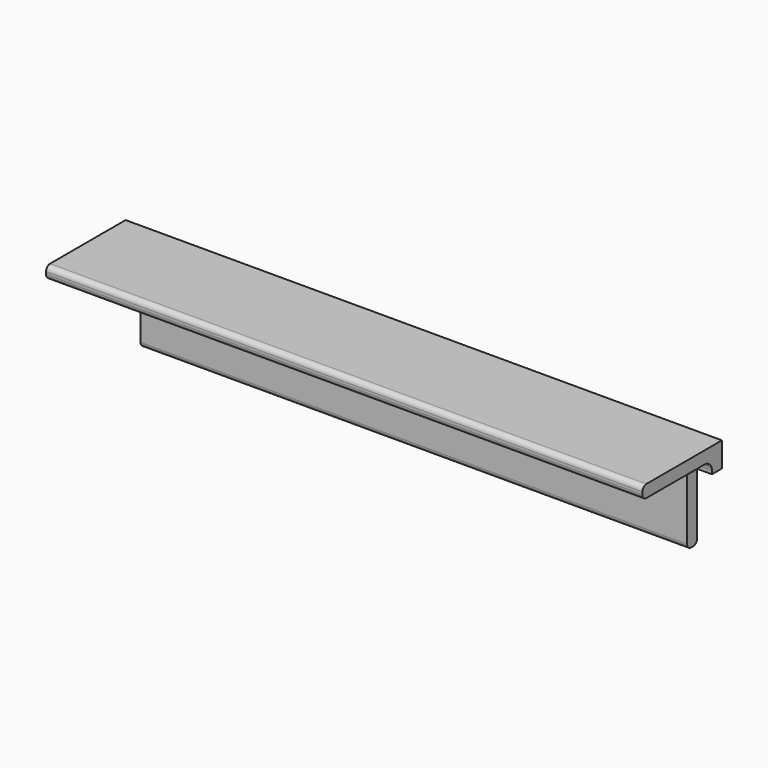
from build123d import *

# Parameters (mm, degrees)
F1_DEPTH = 304.8
F2_W     = 12.7
F2_H     = 38.1
F3_DEPTH = 25.4
F4_W     = 12.7
F4_H     = 38.1
F5_DEPTH = 25.4
F6_R     = 4.7625
F7_R     = 2.54
F8_R     = 4.7625


with BuildPart() as f1:
    # F0 (on Right) → F1 (new body)
    with BuildSketch(Plane.YZ):
        Polygon((28.189341, 36.801784), (-22.610659, 36.801784), (-22.610659, 30.451784), (21.839341, 30.451784), (21.839341, -13.998216), (28.189341, -13.998216), align=None)
    extrude(amount=F1_DEPTH)

    # F2 (on face) → F3 (cut)
    with BuildSketch(Plane.XZ.offset(-21.839341)):
        with Locations((6.35, 5.051784)):
            Rectangle(F2_W, F2_H)
    extrude(amount=-F3_DEPTH, mode=Mode.SUBTRACT)

    # F4 (on face) → F5 (cut)
    with BuildSketch(Plane.XZ.offset(-21.839341)):
        with Locations((298.45, 5.051784)):
            Rectangle(F4_W, F4_H)
    extrude(amount=-F5_DEPTH, mode=Mode.SUBTRACT)

    # F6
    f6_edges = [f1.edges().sort_by_distance(p)[0] for p in [
        (152.4, 21.839341, 30.451784),
    ]]
    fillet(f6_edges, radius=F6_R)

    # F7
    f7_edges = [f1.edges().sort_by_distance(p)[0] for p in [
        (152.4, -22.610659, 36.801784),
        (152.4, -22.610659, 30.451784),
        (152.4, 21.839341, -13.998216),
        (152.4, 28.189341, -13.998216),
    ]]
    fillet(f7_edges, radius=F7_R)

    # F8
    f8_edges = [f1.edges().sort_by_distance(p)[0] for p in [
        (292.1, 25.014341, 24.101784),
        (12.7, 25.014341, 24.101784),
    ]]
    fillet(f8_edges, radius=F8_R)


solid = f1.part
